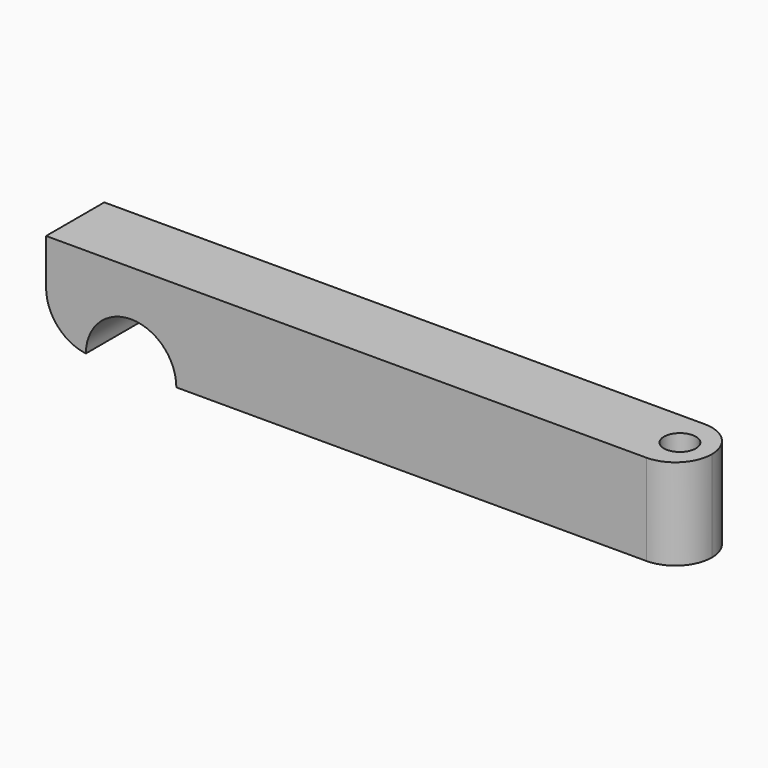
from build123d import *

# Parameters (mm, degrees)
F1_DEPTH = 10
F2_R     = 5
F3_R     = 4.975574
F4_DEPTH = 25
F5_R     = 1.756999
F6_DEPTH = 25


with BuildPart() as f1:
    # F0 (on Top) → F1 (new body)
    with BuildSketch(Plane.XY):
        with BuildLine():
            Line((0, 8), (0, 0))
            Line((0, 0), (66, 0))
            ThreePointArc((66, 0), (68.828427, 1.171573), (70, 4))
            ThreePointArc((70, 4), (68.828427, 6.828427), (66, 8))
            Line((66, 8), (0, 8))
        make_face()
    extrude(amount=F1_DEPTH)

    # F2
    f2_edges = [f1.edges().sort_by_distance(p)[0] for p in [
        (0, 4, 0),
    ]]
    fillet(f2_edges, radius=F2_R)

    # F3 (on face) → F4 (cut)
    with BuildSketch(Plane(origin=(0, 8, 0), x_dir=(-1, 0, 0), z_dir=(0, 1, 0))):
        with Locations((-9.348009, 0)):
            Circle(F3_R)
    extrude(amount=-F4_DEPTH, mode=Mode.SUBTRACT)

    # F5 (on face) → F6 (cut)
    with BuildSketch(Plane(origin=(0, 0, 0), x_dir=(1, 0, 0), z_dir=(0, 0, -1))):
        with Locations((66.500589, -4)):
            Circle(F5_R)
    extrude(amount=-F6_DEPTH, mode=Mode.SUBTRACT)


solid = f1.part
